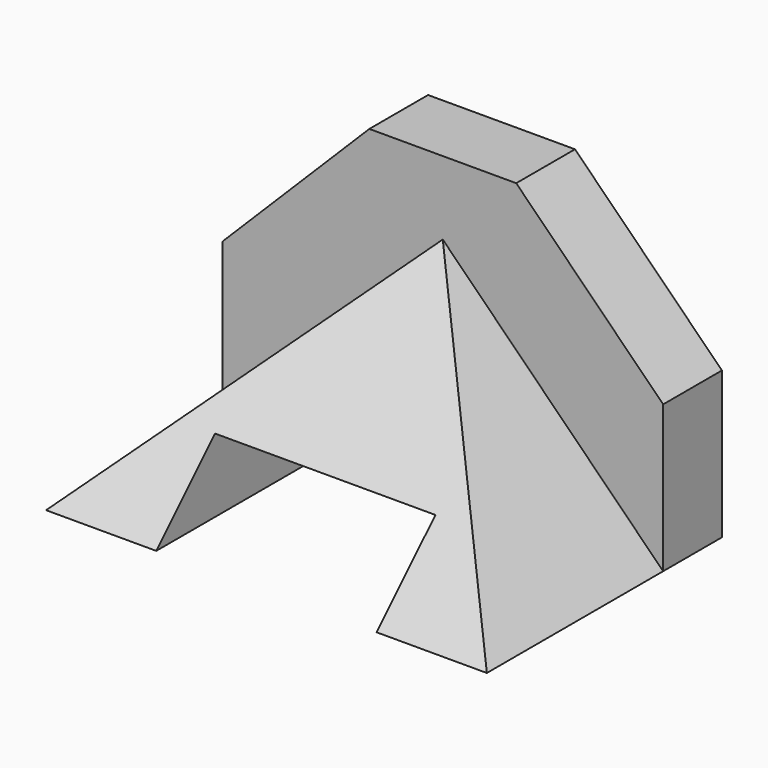
from build123d import *

# Parameters (mm, degrees)
F0_W     = 25.4
F0_H     = 12.7
F1_DEPTH = 50.8
F3_DEPTH = 12.7
F5_DEPTH = 38.1
F7_DEPTH = 76.201


with BuildPart() as f1:
    # F0 (on Top) → F1 (new body)
    with BuildSketch(Plane.XY):
        with Locations((12.7, 44.45)):
            Rectangle(F0_W, F0_H)
        Polygon((25.4, 38.1), (38.1, 38.1), (50.8, 38.1), (50.8, 50.8), (25.4, 50.8), align=None)
        with Locations((63.5, 44.45)):
            Rectangle(F0_W, F0_H)
    extrude(amount=F1_DEPTH)

    # F2 (on face) → F3 (cut)
    with BuildSketch(Plane(origin=(0, 50.8, 0), x_dir=(-1, 0, 0), z_dir=(0, 1, 0))):
        Polygon((-76.2, 25.4), (-50.8, 50.8), (-76.2, 50.8), align=None)
        Polygon((-25.4, 50.8), (0, 25.4), (0, 50.8), align=None)
    extrude(amount=-F3_DEPTH, mode=Mode.SUBTRACT)

    # F4 (on face) → F5 (join)
    with BuildSketch(Plane.XZ.offset(-38.1)):
        Polygon((38.1, 38.1), (0, 0), (19.05, 0), (19.05, 12.7), (57.15, 12.7), (57.15, 0), (76.2, 0), align=None)
    extrude(amount=F5_DEPTH)

    # F6 (on face) → F7 (cut, through all)
    with BuildSketch(Plane.YZ.offset(76.2)):
        Polygon((38.1, 38.1), (0, 38.1), (0, 0), align=None)
        Polygon((38.1, 38.1), (0, 38.1), (0, 0), align=None)
    extrude(amount=-F7_DEPTH, mode=Mode.SUBTRACT)


solid = f1.part
